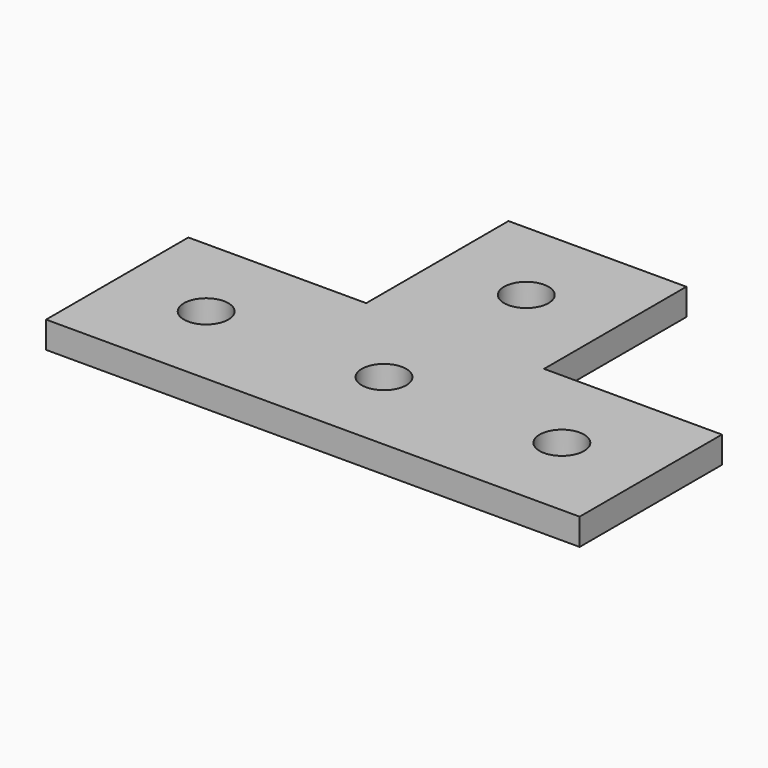
from build123d import *

# Parameters (mm, degrees)
F0_R     = 2.5
F1_DEPTH = 3


with BuildPart() as f1:
    # F0 (on Top) → F1 (new body)
    with BuildSketch(Plane.XY):
        Polygon((-30, 0), (0, 0), (30, 0), (30, 20), (10, 20), (10, 40), (0, 40), (-10, 40), (-10, 20), (-30, 20), align=None)
        with Locations((-20, 10)):
            Circle(F0_R, mode=Mode.SUBTRACT)
        with Locations((0, 10)):
            Circle(F0_R, mode=Mode.SUBTRACT)
        with Locations((20, 10)):
            Circle(F0_R, mode=Mode.SUBTRACT)
        with Locations((0, 30)):
            Circle(F0_R, mode=Mode.SUBTRACT)
    extrude(amount=F1_DEPTH)


solid = f1.part
